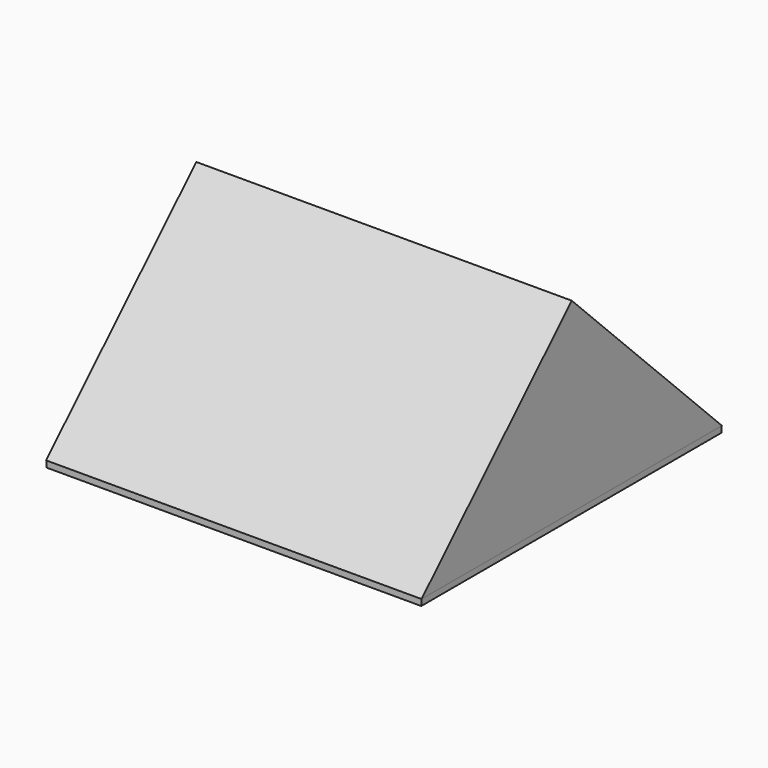
from build123d import *

# Parameters (mm, degrees)
F0_W     = 76.021425
F0_H     = 76.1365
F1_DEPTH = 2.54
F3_DEPTH = 76.1365


with BuildPart() as f1:
    # F0 (on Top) → F1 (new body)
    with BuildSketch(Plane.XY):
        with Locations((-38.010712, 38.06825)):
            Rectangle(F0_W, F0_H)
        with Locations((38.010712, -38.06825)):
            Rectangle(F0_W, F0_H)
        with Locations((-38.010712, -38.06825)):
            Rectangle(F0_W, F0_H)
        with Locations((38.010712, 38.06825)):
            Rectangle(F0_W, F0_H)
    extrude(amount=F1_DEPTH)

    # F2 (on Right) → F3 (join, symmetric)
    with BuildSketch(Plane.YZ):
        Polygon((0, 78.126065), (-76.1365, 2.54), (76.1365, 2.54), align=None)
    extrude(amount=F3_DEPTH, both=True)


solid = f1.part
